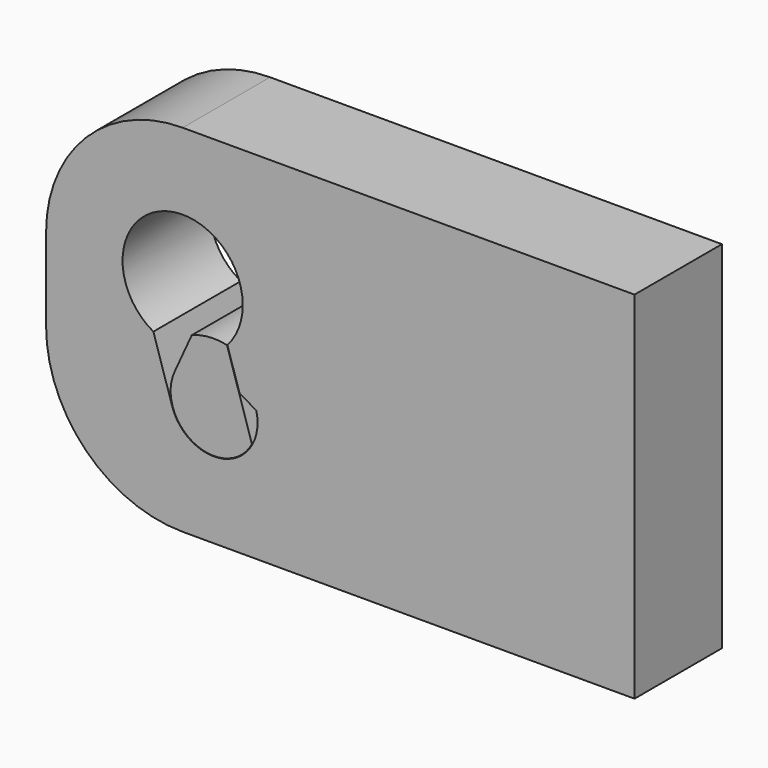
from build123d import *

# Parameters (mm, degrees)
F2_DEPTH = 25.4
F3_DEPTH = 25.4


with BuildPart() as f2:
    # F0 (on Front) → F2 (new body)
    with BuildSketch(Plane.XZ):
        with BuildLine():
            Line((0, 54.76319), (-7.256031, 54.76319))
            ThreePointArc((-7.256031, 54.76319), (-29.706671, 45.46383), (-39.006031, 23.01319))
            Line((-39.006031, 23.01319), (-39.006031, 3.879167))
            ThreePointArc((-39.006031, 3.879167), (-29.731187, -18.616173), (-7.256106, -27.94))
            Line((-7.256106, -27.94), (0, -27.94))
            Line((0, -27.94), (97.79, -27.94))
            Line((97.79, -27.94), (97.79, 54.76319))
            Line((97.79, 54.76319), (0, 54.76319))
        make_face()
        with BuildLine():
            ThreePointArc((9.861328, 2.445365), (10.085056, 1.231768), (10.16, 0))
            ThreePointArc((10.16, 0), (1.545574, -10.041753), (-9.689764, -3.055171))
            Line((-9.689764, -3.055171), (-14.062541, 10.813505))
            ThreePointArc((-14.062541, 10.813505), (-14.329713, 35.059929), (6.713969, 23.01319))
            ThreePointArc((6.713969, 23.01319), (5.790595, 18.018548), (3.142538, 13.684167))
            Line((3.142538, 13.684167), (4.601007, 9.058495))
            ThreePointArc((4.601007, 9.058495), (7.951299, 6.324749), (9.861328, 2.445365))
        make_face(mode=Mode.SUBTRACT)
        with BuildLine():
            Line((5.961896, 4.742306), (9.861328, 2.445365))
            ThreePointArc((9.861328, 2.445365), (7.951299, 6.324749), (4.601007, 9.058495))
            Line((4.601007, 9.058495), (5.961896, 4.742306))
        make_face()
    extrude(amount=F2_DEPTH)


with BuildPart() as f3:
    # F1 (on Front) → F3 (new body)
    with BuildSketch(Plane.XZ):
        with BuildLine():
            Line((8.854894, -4.770982), (4.516981, 8.987118))
            ThreePointArc((4.516981, 8.987118), (-3.342302, 9.486855), (-9.152754, 4.171151))
            ThreePointArc((-9.152754, 4.171151), (-4.473546, -9.008818), (8.854894, -4.770982))
        make_face()
        with BuildLine():
            ThreePointArc((-9.152754, 4.171151), (-3.342302, 9.486855), (4.516981, 8.987118))
            Line((4.516981, 8.987118), (3.052306, 13.632473))
            ThreePointArc((3.052306, 13.632473), (-1.088066, 13.927563), (-5.132379, 12.993059))
            Line((-5.132379, 12.993059), (-9.152754, 4.171151))
        make_face()
    extrude(amount=F3_DEPTH)


solid = Compound([f2.part, f3.part])
